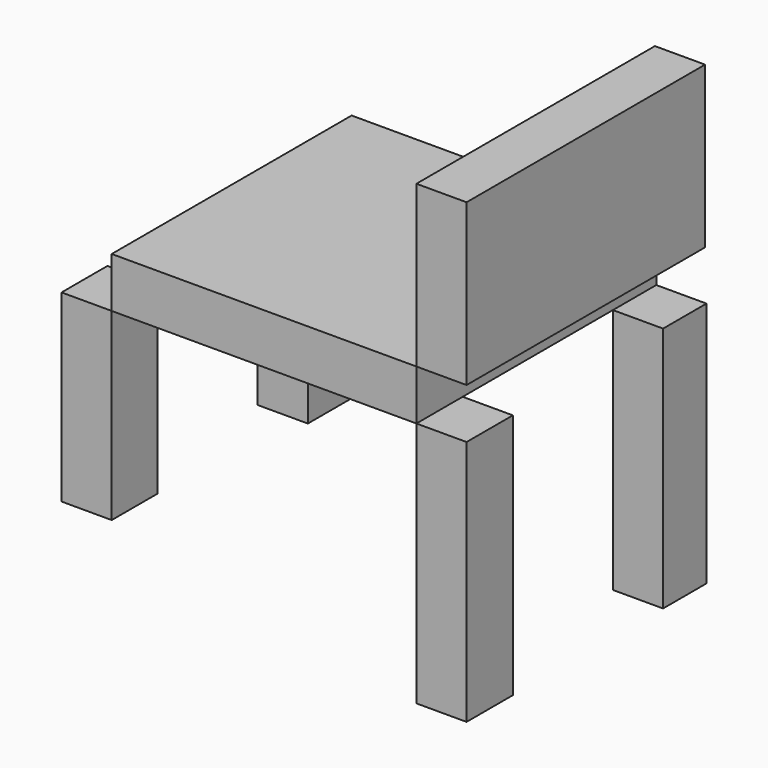
from build123d import *

# Parameters (mm, degrees)
F0_W     = 154.289946
F0_H     = 151.83901
F1_DEPTH = 25.4
F2_W     = 150.958963
F2_H     = 81.478422
F3_DEPTH = 25.4
F4_W     = 29.057968
F4_H     = 93.238361
F5_DEPTH = 25.4
F6_W     = 27.685478
F6_H     = 100.678109
F7_DEPTH = 25.4
F8_W     = 27.458507
F8_H     = 124.773905
F8_W_2   = 29.284947
F9_DEPTH = 25.4


with BuildPart() as f1:
    # F0 (on Top) → F1 (new body)
    with BuildSketch(Plane.XY):
        with Locations((1.16834, 1.207549)):
            Rectangle(F0_W, F0_H)
    extrude(amount=F1_DEPTH)


with BuildPart() as f3:
    # F2 (on face) → F3 (new body)
    with BuildSketch(Plane.YZ.offset(78.313313)):
        with Locations((0.767525, 66.139211)):
            Rectangle(F2_W, F2_H)
    extrude(amount=F3_DEPTH)


with BuildPart() as f5:
    # F4 (on face) → F5 (new body)
    with BuildSketch(Plane(origin=(-75.976633, 0, 0), x_dir=(0, -1, 0), z_dir=(-1, 0, 0))):
        with Locations((60.182972, -46.61918)):
            Rectangle(F4_W, F4_H)
    extrude(amount=F5_DEPTH)


with BuildPart() as f7:
    # F6 (on face) → F7 (new body)
    with BuildSketch(Plane(origin=(-75.976633, 0, 0), x_dir=(0, -1, 0), z_dir=(-1, 0, 0))):
        with Locations((-63.284315, -50.339054)):
            Rectangle(F6_W, F6_H)
    extrude(amount=F7_DEPTH)


with BuildPart() as f9:
    # F8 (on face) → F9 (new body)
    with BuildSketch(Plane.YZ.offset(78.313313)):
        with Locations((63.397801, -62.386952)):
            Rectangle(F8_W, F8_H)
        with Locations((-60.069482, -62.386952)):
            Rectangle(F8_W_2, F8_H)
    extrude(amount=F9_DEPTH)


solid = Compound([f1.part, f3.part, f5.part, f7.part, f9.part])
